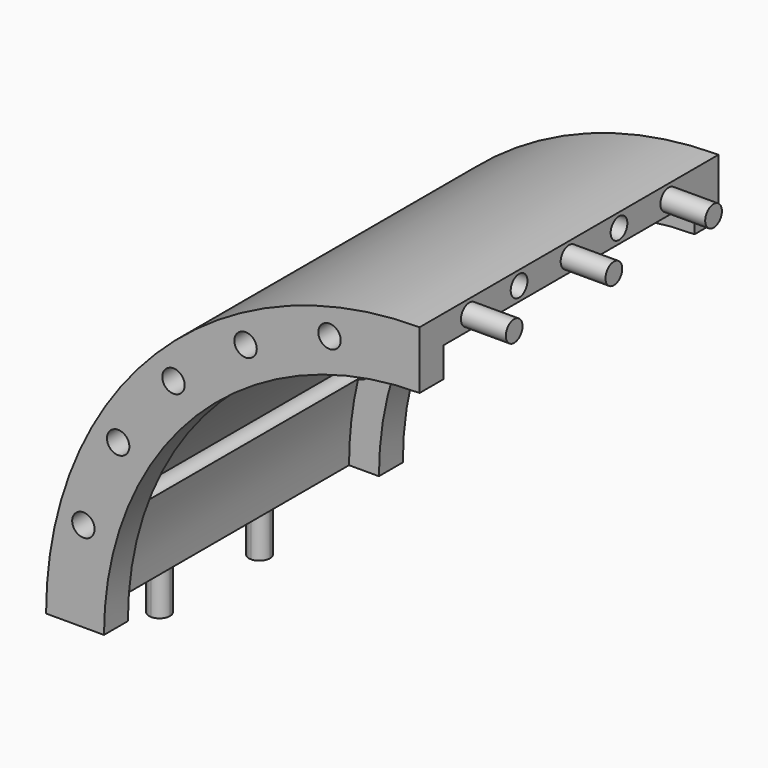
from build123d import *

# Parameters (mm, degrees)
F1_DEPTH  = 250
F2_R      = 7
F3_DEPTH  = 30
F4_DEPTH  = 30
F6_DEPTH  = 20
F8_DEPTH  = 20
F10_DEPTH = 30
F11_DEPTH = 30
F13_D     = 15
F13_DEPTH = 400
F13_TIP   = 4.5064546427
F15_D     = 5
F15_DEPTH = 10
F15_TIP   = 1.5021515476


with BuildPart() as f1:
    # F0 (on Front) → F1 (new body)
    with BuildSketch(Plane.XZ):
        with BuildLine():
            Line((0, 231.25), (0, 250))
            ThreePointArc((0, 250), (-176.7766952966, 176.7766952966), (-250, 0))
            Line((-250, 0), (-231.25, 0))
            ThreePointArc((-231.25, 0), (-163.5184431494, 163.5184431494), (0, 231.25))
        make_face()
    extrude(amount=F1_DEPTH)

    # F2 (on face) → F3 (join)
    with BuildSketch(Plane.YZ):
        with Locations((-208.4, 240.625)):
            Circle(F2_R)
        with Locations((-125, 240.625)):
            Circle(F2_R)
        with Locations((-41.6, 240.625)):
            Circle(F2_R)
    extrude(amount=F3_DEPTH)

    # F2 (on face) → F4 (cut)
    with BuildSketch(Plane.YZ):
        with Locations((-166.8, 240.625)):
            Circle(F2_R)
        with Locations((-83.2, 240.625)):
            Circle(F2_R)
    extrude(amount=-F4_DEPTH, mode=Mode.SUBTRACT)

    # F5 (on face) → F6 (join)
    with BuildSketch(Plane.XZ.offset(250)):
        with BuildLine():
            ThreePointArc((-211.25, 0), (-149.3763075257, 149.3763075257), (0, 211.25))
            Line((0, 211.25), (0, 231.25))
            ThreePointArc((0, 231.25), (-163.5184431494, 163.5184431494), (-231.25, 0))
            Line((-231.25, 0), (-211.25, 0))
        make_face()
    extrude(amount=-F6_DEPTH)

    # F7 (on face) → F8 (join)
    with BuildSketch(Plane(origin=(0, 0, 0), x_dir=(-1, 0, 0), z_dir=(0, 1, 0))):
        with BuildLine():
            ThreePointArc((0, 211.25), (149.3763075257, 149.3763075257), (211.25, 0))
            Line((211.25, 0), (231.25, 0))
            ThreePointArc((231.25, 0), (163.5184431494, 163.5184431494), (0, 231.25))
            Line((0, 231.25), (0, 211.25))
        make_face()
    extrude(amount=-F8_DEPTH)

    # F9 (on face) → F10 (join)
    with BuildSketch(Plane(origin=(0, 0, 0), x_dir=(1, 0, 0), z_dir=(0, 0, -1))):
        with BuildLine():
            Line((-240.625, 166.8), (-233.625, 166.8))
            ThreePointArc((-233.625, 166.8), (-235.6752525317, 171.7497474683), (-240.625, 173.8))
            Line((-240.625, 173.8), (-240.625, 166.8))
        make_face()
        with BuildLine():
            ThreePointArc((-240.625, 159.8), (-235.6752525317, 161.8502525317), (-233.625, 166.8))
            Line((-233.625, 166.8), (-240.625, 166.8))
            Line((-240.625, 166.8), (-240.625, 159.8))
        make_face()
        with BuildLine():
            Line((-240.625, 166.8), (-247.625, 166.8))
            ThreePointArc((-247.625, 166.8), (-245.5747474683, 161.8502525317), (-240.625, 159.8))
            Line((-240.625, 159.8), (-240.625, 166.8))
        make_face()
        with BuildLine():
            ThreePointArc((-240.625, 173.8), (-245.5747474683, 171.7497474683), (-247.625, 166.8))
            Line((-247.625, 166.8), (-240.625, 166.8))
            Line((-240.625, 166.8), (-240.625, 173.8))
        make_face()
        with BuildLine():
            Line((-240.625, 90.2), (-240.625, 83.2))
            Line((-240.625, 83.2), (-233.625, 83.2))
            ThreePointArc((-233.625, 83.2), (-235.6752525317, 88.1497474683), (-240.625, 90.2))
        make_face()
        with BuildLine():
            Line((-240.625, 83.2), (-240.625, 76.2))
            ThreePointArc((-240.625, 76.2), (-235.6752525317, 78.2502525317), (-233.625, 83.2))
            Line((-233.625, 83.2), (-240.625, 83.2))
        make_face()
        with BuildLine():
            Line((-247.625, 83.2), (-240.625, 83.2))
            Line((-240.625, 83.2), (-240.625, 90.2))
            ThreePointArc((-240.625, 90.2), (-245.5747474683, 88.1497474683), (-247.625, 83.2))
        make_face()
        with BuildLine():
            ThreePointArc((-247.625, 83.2), (-245.5747474683, 78.2502525317), (-240.625, 76.2))
            Line((-240.625, 76.2), (-240.625, 83.2))
            Line((-240.625, 83.2), (-247.625, 83.2))
        make_face()
    extrude(amount=F10_DEPTH)

    # F9 (on face) → F11 (cut)
    with BuildSketch(Plane(origin=(0, 0, 0), x_dir=(1, 0, 0), z_dir=(0, 0, -1))):
        with BuildLine():
            ThreePointArc((-240.625, 215.4), (-245.5747474683, 213.3497474683), (-247.625, 208.4))
            Line((-247.625, 208.4), (-240.625, 208.4))
            Line((-240.625, 208.4), (-240.625, 215.4))
        make_face()
        with BuildLine():
            Line((-240.625, 208.4), (-233.625, 208.4))
            ThreePointArc((-233.625, 208.4), (-235.6752525317, 213.3497474683), (-240.625, 215.4))
            Line((-240.625, 215.4), (-240.625, 208.4))
        make_face()
        with BuildLine():
            ThreePointArc((-240.625, 201.4), (-235.6752525317, 203.4502525317), (-233.625, 208.4))
            Line((-233.625, 208.4), (-240.625, 208.4))
            Line((-240.625, 208.4), (-240.625, 201.4))
        make_face()
        with BuildLine():
            Line((-240.625, 125), (-233.625, 125))
            ThreePointArc((-233.625, 125), (-235.6752525317, 129.9497474683), (-240.625, 132))
            Line((-240.625, 132), (-240.625, 125))
        make_face()
        with BuildLine():
            Line((-240.625, 125), (-247.625, 125))
            ThreePointArc((-247.625, 125), (-245.5747474683, 120.0502525317), (-240.625, 118))
            Line((-240.625, 118), (-240.625, 125))
        make_face()
        with BuildLine():
            ThreePointArc((-240.625, 118), (-235.6752525317, 120.0502525317), (-233.625, 125))
            Line((-233.625, 125), (-240.625, 125))
            Line((-240.625, 125), (-240.625, 118))
        make_face()
        with BuildLine():
            ThreePointArc((-240.625, 132), (-245.5747474683, 129.9497474683), (-247.625, 125))
            Line((-247.625, 125), (-240.625, 125))
            Line((-240.625, 125), (-240.625, 132))
        make_face()
        with BuildLine():
            Line((-240.625, 48.6), (-240.625, 41.6))
            Line((-240.625, 41.6), (-233.625, 41.6))
            ThreePointArc((-233.625, 41.6), (-235.6752525317, 46.5497474683), (-240.625, 48.6))
        make_face()
        with BuildLine():
            Line((-233.625, 41.6), (-240.625, 41.6))
            Line((-240.625, 41.6), (-240.625, 34.6))
            ThreePointArc((-240.625, 34.6), (-235.6752525317, 36.6502525317), (-233.625, 41.6))
        make_face()
        with BuildLine():
            Line((-247.625, 41.6), (-240.625, 41.6))
            Line((-240.625, 41.6), (-240.625, 48.6))
            ThreePointArc((-240.625, 48.6), (-245.5747474683, 46.5497474683), (-247.625, 41.6))
        make_face()
        with BuildLine():
            Line((-240.625, 34.6), (-240.625, 41.6))
            Line((-240.625, 41.6), (-247.625, 41.6))
            ThreePointArc((-247.625, 41.6), (-245.5747474683, 36.6502525317), (-240.625, 34.6))
        make_face()
        with BuildLine():
            Line((-240.625, 208.4), (-247.625, 208.4))
            ThreePointArc((-247.625, 208.4), (-245.5747474683, 203.4502525317), (-240.625, 201.4))
            Line((-240.625, 201.4), (-240.625, 208.4))
        make_face()
    extrude(amount=-F11_DEPTH, mode=Mode.SUBTRACT)

    # F13
    with Locations(Plane(origin=(0, 0, 0), x_dir=(-1, 0, 0), z_dir=(0, 1, 0))):
        with Locations((60.2965652341, 225.0298449755), (116.4840191922, 201.7562395108), (164.7332797414, 164.7332797414), (201.7562395108, 116.4840191922), (225.0298449755, 60.2965652341)):
            Hole(F13_D / 2, depth=F13_DEPTH)
            with Locations((0, 0, -(F13_DEPTH + F13_TIP / 2))):  # 118° drill point
                Cone(0, F13_D / 2, F13_TIP, mode=Mode.SUBTRACT)

    # F15 (one way)
    with BuildSketch(Plane.XZ.offset(20)):
        with Locations((-198.3330953711, 88.4955437344), (-172.1848046199, 134.3289181376), (-130.2505871514, 177.6727710928), (-79.6826335432, 207.8403590443)):
            Circle(F15_D / 2)
    extrude(amount=-F15_DEPTH, mode=Mode.SUBTRACT)
    with Locations(Plane.XZ.offset(20)):
        with Locations((-198.3330953711, 88.4955437344), (-172.1848046199, 134.3289181376), (-130.2505871514, 177.6727710928), (-79.6826335432, 207.8403590443)):
            with Locations((0, 0, -(F15_DEPTH + F15_TIP / 2))):  # 118° drill point
                Cone(0, F15_D / 2, F15_TIP, mode=Mode.SUBTRACT)


solid = f1.part
